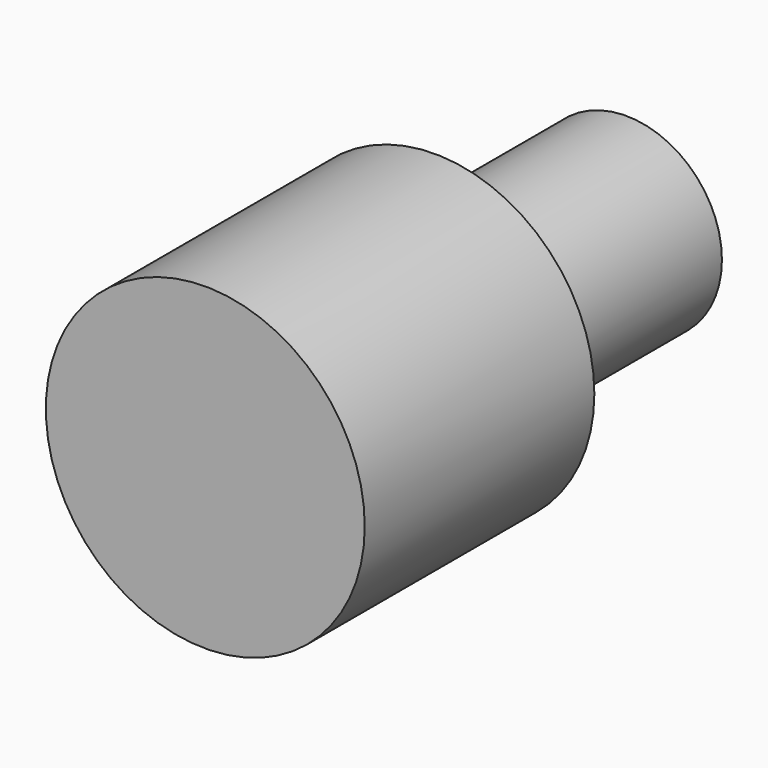
from build123d import *

# Parameters (mm, degrees)
CYLINDER008_R          = 6
CYLINDER008_DEPTH      = 15
CYLINDER008_ROLL_ANGLE = 90
CYLINDER007_R          = 10
CYLINDER007_DEPTH      = 18
CYLINDER007_ROLL_ANGLE = 90


with BuildPart() as cylinder008:
    # Cylinder008 → Cylinder008 (new body)
    with BuildSketch(Plane.XY):
        Circle(CYLINDER008_R)
    extrude(amount=CYLINDER008_DEPTH)


with BuildPart() as cylinder008_1:
    # Cylinder008 roll: moved
    add(cylinder008.part.rotate(Axis((0, 0, 0), (1, 0, 0)), CYLINDER008_ROLL_ANGLE))


with BuildPart() as cylinder008_2:
    # Cylinder008 placement: moved
    add(cylinder008_1.part.moved(Location((450, 250, 50))))


with BuildPart() as obj1:
    # Cylinder007 → Cylinder007 (new body)
    with BuildSketch(Plane.XY):
        Circle(CYLINDER007_R)
    extrude(amount=CYLINDER007_DEPTH)


with BuildPart() as obj1_1:
    # Cylinder007 roll: moved
    add(obj1.part.rotate(Axis((0, 0, 0), (1, 0, 0)), CYLINDER007_ROLL_ANGLE))


with BuildPart() as obj1_2:
    # Cylinder007 placement: moved
    add(obj1_1.part.moved(Location((450, 235, 50))))

    # Fusion002: union Cylinder008
    add(cylinder008_2.part)


with BuildPart() as obj1_3:
    # Fusion002 placement: moved
    add(obj1_2.part.moved(Location((0, 0, 40))))


solid = obj1_3.part
